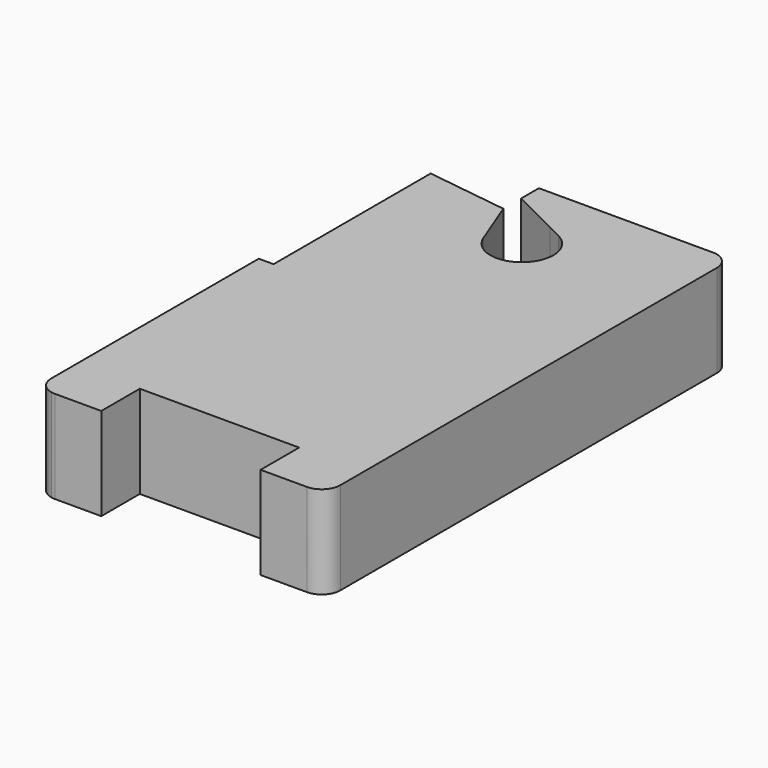
from build123d import *

# Parameters (mm, degrees)
F1_DEPTH = 25


with BuildPart() as f1:
    # F0 (on Top) → F1 (new body)
    with BuildSketch(Plane.XY):
        with BuildLine():
            Line((21.5, -68.5), (34, -68.5))
            ThreePointArc((34, -68.5), (37.535534, -67.035534), (39, -63.5))
            Line((39, -63.5), (39, 63.5))
            ThreePointArc((39, 63.5), (37.535534, 67.035534), (34, 68.5))
            Line((34, 68.5), (0, 68.5))
            Line((0, 68.5), (0, 56.002545))
            Line((0, 56.002545), (3.800125, 54.103226))
            ThreePointArc((3.800125, 54.103226), (7.230182, 50.969281), (8.5, 46.5))
            ThreePointArc((8.5, 46.5), (1.564767, 38.145271), (-7.923883, 43.423952))
            Line((-7.923883, 43.423952), (-13, 56.5))
            Line((-13, 56.5), (-35, 56.5))
            Line((-35, 56.5), (-35, 6.5))
            Line((-35, 6.5), (-35, -45.640428))
            Line((-35, -45.640428), (-35, -68.398979))
            ThreePointArc((-35, -68.398979), (-34.502545, -68.474681), (-34, -68.5))
            Line((-34, -68.5), (-30, -68.5))
            Line((-30, -68.5), (-21.5, -68.5))
            Line((-21.5, -68.5), (-21.5, -55.5))
            Line((-21.5, -55.5), (21.5, -55.5))
            Line((21.5, -55.5), (21.5, -68.5))
        make_face()
        with BuildLine():
            ThreePointArc((-39, -63.5), (-37.872983, -66.662278), (-35, -68.398979))
            Line((-35, -68.398979), (-35, -45.640428))
            Line((-35, -45.640428), (-35, 6.5))
            Line((-35, 6.5), (-39, 6.5))
            Line((-39, 6.5), (-39, -63.5))
        make_face()
        Polygon((0, 56.002545), (0, 68.5), (-13, 68.5), (-13, 62.5), align=None)
        Polygon((-35, 56.5), (-13, 56.5), (-35, 59.5), align=None)
    extrude(amount=F1_DEPTH)


solid = f1.part
